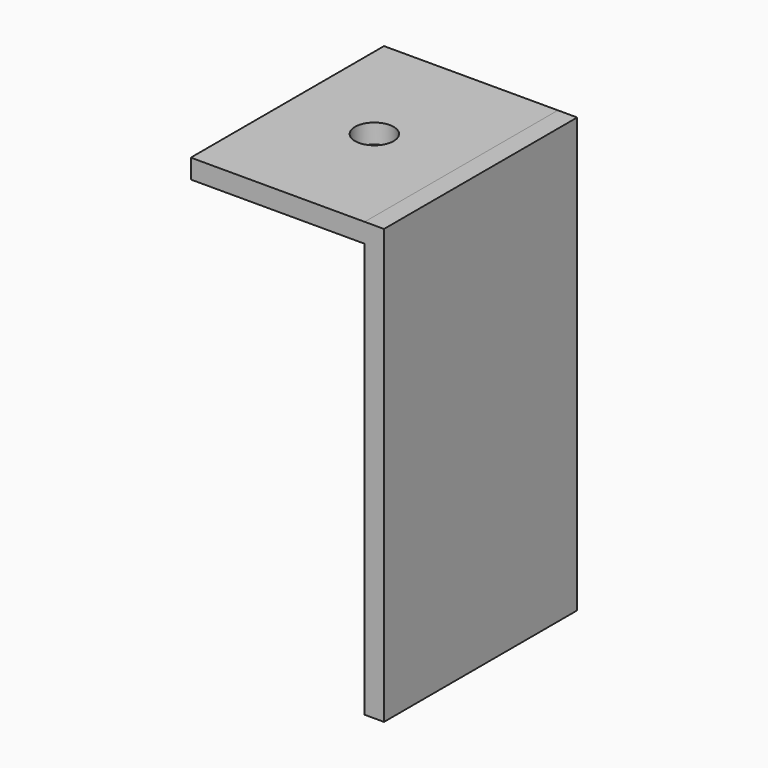
from build123d import *

# Parameters (mm, degrees)
F0_W     = 18
F0_H     = 25
F0_R     = 2
F1_DEPTH = 2
F2_W     = 25
F2_H     = 44.926497
F3_DEPTH = 2


with BuildPart() as f1:
    # F0 (on Top) → F1 (new body)
    with BuildSketch(Plane.XY):
        with Locations((-9, 10.006908)):
            Rectangle(F0_W, F0_H)
        with Locations((-9, 10.006908)):
            Circle(F0_R, mode=Mode.SUBTRACT)
    extrude(amount=-F1_DEPTH)

    # F2 (on Right) → F3 (join)
    with BuildSketch(Plane.YZ):
        with Locations((10.006908, -22.463248)):
            Rectangle(F2_W, F2_H)
    extrude(amount=F3_DEPTH)


solid = f1.part
